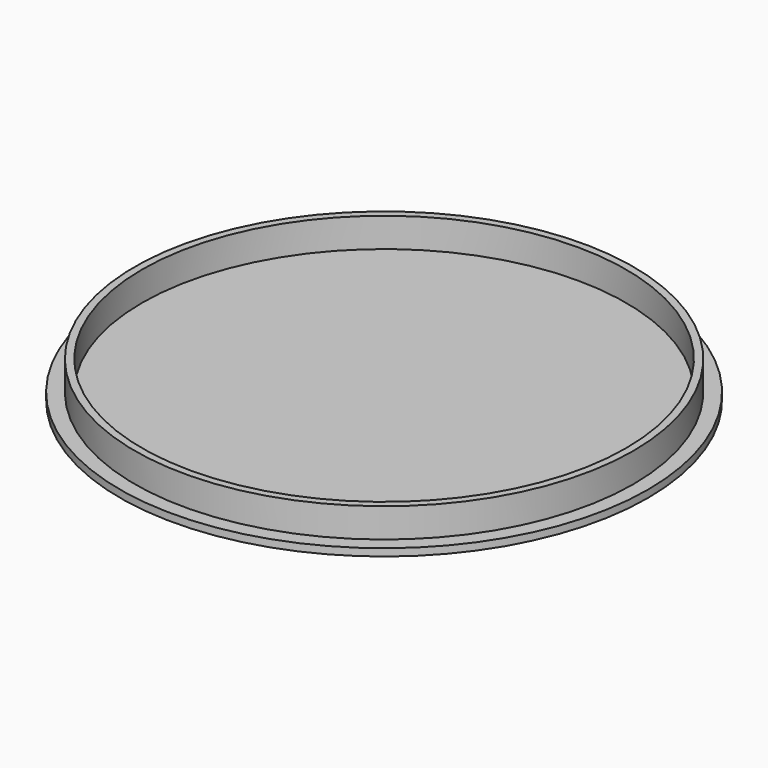
from build123d import *

# Parameters (mm, degrees)
SKETCH_R     = 34
SKETCH_R_2   = 33
PAD_DEPTH    = 4
SKETCH001_R  = 36
PAD001_DEPTH = 1


with BuildPart() as part:
    # Sketch → Pad (new body)
    with BuildSketch(Plane.XY):
        Circle(SKETCH_R)
        Circle(SKETCH_R_2, mode=Mode.SUBTRACT)
    extrude(amount=PAD_DEPTH)

    # Sketch001 → Pad001 (join)
    with BuildSketch(Plane.XY):
        Circle(SKETCH001_R)
    extrude(amount=-PAD001_DEPTH)


solid = part.part
